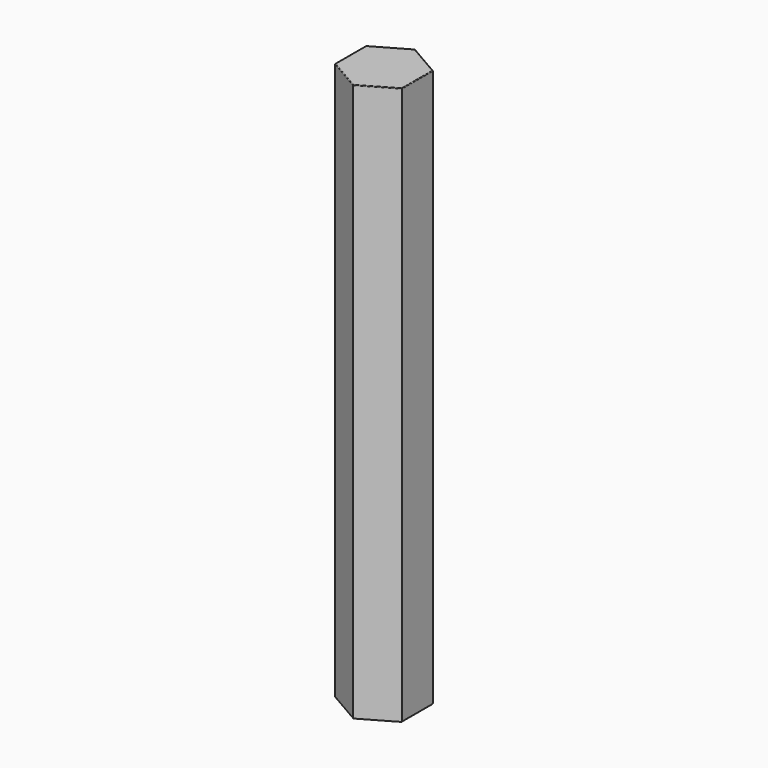
from build123d import *

# Parameters (mm, degrees)
F1_DEPTH = 200
F2_R     = 0.2


with BuildPart() as f1:
    # F0 (on Top) → F1 (new body)
    with BuildSketch(Plane.XY):
        Polygon((-0.015583, -13.856398), (11.992201, -6.941694), (12.007784, 6.914704), (0.015583, 13.856398), (-11.992201, 6.941694), (-12.007784, -6.914704), align=None)
    extrude(amount=F1_DEPTH)

    # F2
    f2_edges = [f1.edges().sort_by_distance(p)[0] for p in [
        (5.988309, -10.399046, 200),
        (11.999992, -0.013495, 200),
        (6.011683, 10.385551, 200),
        (-5.988309, 10.399046, 200),
        (-11.999992, 0.013495, 200),
        (-6.011683, -10.385551, 200),
        (11.992201, -6.941694, 100),
        (12.007784, 6.914704, 100),
        (11.999992, -0.013495, 0),
        (0.015583, 13.856398, 100),
        (6.011683, 10.385551, 0),
        (-11.992201, 6.941694, 100),
        (-5.988309, 10.399046, 0),
        (-12.007784, -6.914704, 100),
        (-11.999992, 0.013495, 0),
        (-0.015583, -13.856398, 100),
        (-6.011683, -10.385551, 0),
    ]]
    fillet(f2_edges, radius=F2_R)


solid = f1.part
